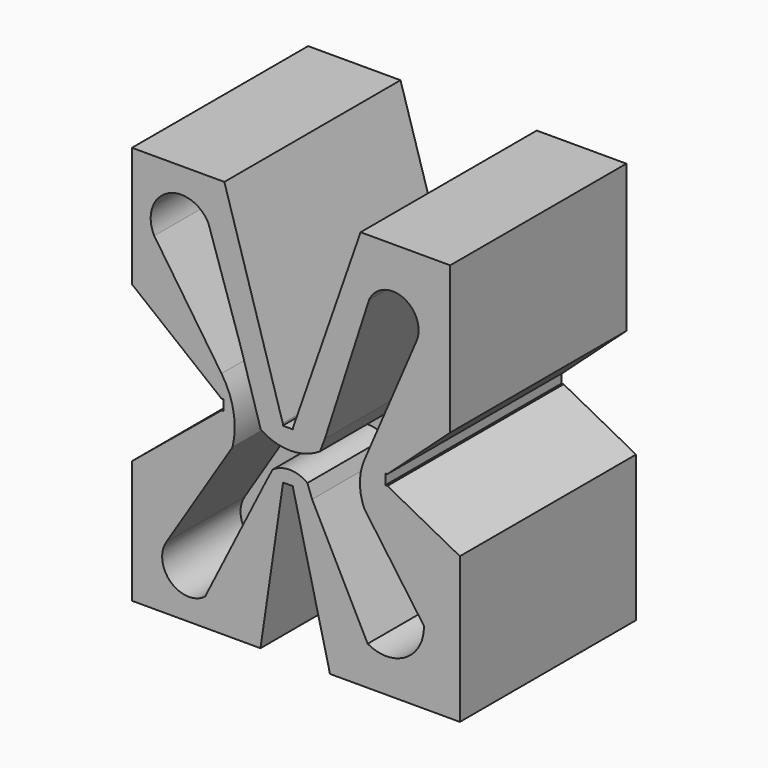
from build123d import *

# Parameters (mm, degrees)
F1_DEPTH = 80.518
F3_DEPTH = 35.814


with BuildPart() as f1:
    # F0 (on Front) → F1 (new body)
    with BuildSketch(Plane.XZ):
        Polygon((0, -0.762), (0, 0), (-21.359177, 70.760617), (-55.141177, 70.760617), (-55.141177, 26.818617), (-22.395774, 0.661655), (-21.633774, 0.661655), (-21.633774, -3.148345), (-22.395774, -3.148345), (-55.141177, -30.111751), (-55.141177, -75.069751), (-8.151177, -75.069751), (0, -19.787451), (0, -19.025451), (3.81, -19.025451), (3.81, -19.787451), (17.264446, -75.069751), (64.762446, -75.069751), (64.762446, -21.729751), (38.268708, -7.715378), (37.506708, -7.715378), (37.506708, -3.905378), (38.268708, -3.905378), (61.222297, 16.912617), (61.222297, 70.760617), (28.456297, 70.760617), (3.81, 0), (3.81, -0.762), align=None)
    extrude(amount=F1_DEPTH)

    # F2 (on face) → F3 (cut)
    with BuildSketch(Plane.XZ.offset(80.518)):
        with BuildLine():
            ThreePointArc((-27.179906, 55.57543), (-42.347564, 60.223584), (-46.995718, 45.055926))
            Line((-46.995718, 45.055926), (-22.395774, 8.734462))
            ThreePointArc((-22.395774, 8.734462), (-18.012277, -2.03541), (-18.37288, -13.657594))
            Line((-18.37288, -13.657594), (-42.592205, -52.066021))
            ThreePointArc((-42.592205, -52.066021), (-40.919549, -64.482365), (-28.403105, -65.031923))
            Line((-28.403105, -65.031923), (-5.896256, -20.262863))
            Line((-5.896256, -20.262863), (-3.714954, -16.118364))
            ThreePointArc((-3.714954, -16.118364), (2.679495, -14.122741), (9.020682, -16.28164))
            Line((9.020682, -16.28164), (10.73924, -20.996783))
            Line((10.73924, -20.996783), (31.044332, -60.873047))
            ThreePointArc((31.044332, -60.873047), (44.982425, -60.668286), (51.594064, -48.396423))
            Line((51.594064, -48.396423), (29.821135, -17.816467))
            ThreePointArc((29.821135, -17.816467), (28.214282, -9.987998), (29.821135, -2.159529))
            Line((29.821135, -2.159529), (48.903029, 42.364892))
            ThreePointArc((48.903029, 42.364892), (43.984613, 54.782837), (31.53361, 49.948718))
            Line((31.53361, 49.948718), (15.387394, 0))
            Line((15.387394, 0), (13.592449, -4.6399))
            ThreePointArc((13.592449, -4.6399), (2.774989, -7.910214), (-8.04247, -4.6399))
            Line((-8.04247, -4.6399), (-15.437203, 19.85804))
            Line((-15.437203, 19.85804), (-27.179906, 55.57543))
        make_face()
    extrude(amount=-F3_DEPTH, mode=Mode.SUBTRACT)


solid = f1.part
